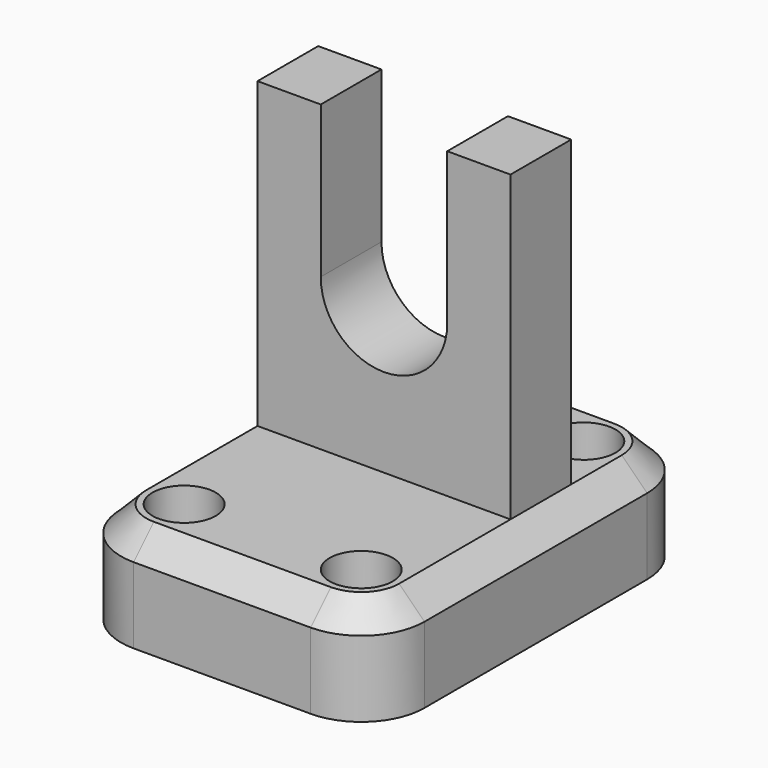
from build123d import *

# Parameters (mm, degrees)
F1_DEPTH = 25.4
F2_D     = 15.875
F3_SIZE  = 6.35
F4_W     = 63.5
F4_H     = 19.05
F5_DEPTH = 76.2
F7_DEPTH = 25.4


with BuildPart() as f1:
    # F0 (on Top) → F1 (new body)
    with BuildSketch(Plane.XY):
        with BuildLine():
            Line((60.325, 0), (15.875, 0))
            ThreePointArc((15.875, 0), (4.6496798487, -4.6496798487), (0, -15.875))
            Line((0, -15.875), (0, -85.725))
            ThreePointArc((0, -85.725), (4.6496798487, -96.9503201513), (15.875, -101.6))
            Line((15.875, -101.6), (60.325, -101.6))
            ThreePointArc((60.325, -101.6), (71.5503201513, -96.9503201513), (76.2, -85.725))
            Line((76.2, -85.725), (76.2, -15.875))
            ThreePointArc((76.2, -15.875), (71.5503201513, -4.6496798487), (60.325, 0))
        make_face()
    extrude(amount=F1_DEPTH)

    # F2 (through all)
    with Locations(Plane(origin=(0, 0, 0), x_dir=(1, 0, 0), z_dir=(0, 0, -1))):
        with Locations((15.875, 15.875), (60.325, 15.875), (60.325, 85.725), (15.875, 85.725)):
            Hole(F2_D / 2)

    # F3
    f3_edges = [f1.edges().sort_by_distance(p)[0] for p in [
        (4.64968, -4.64968, 25.4),
    ]]
    chamfer(f3_edges, length=F3_SIZE)

    # F4 (on face) → F5 (join)
    with BuildSketch(Plane.XY.offset(25.4)):
        with Locations((38.1, -41.275)):
            Rectangle(F4_W, F4_H)
    extrude(amount=F5_DEPTH)

    # F6 (on face) → F7 (cut)
    with BuildSketch(Plane.XZ.offset(50.8)):
        with BuildLine():
            Line((53.975, 63.5), (53.975, 101.6))
            Line((53.975, 101.6), (22.225, 101.6))
            Line((22.225, 101.6), (22.225, 63.5))
            ThreePointArc((22.225, 63.5), (38.1, 79.375), (53.975, 63.5))
        make_face()
        with BuildLine():
            ThreePointArc((22.225, 63.5), (38.1, 47.625), (53.975, 63.5))
            ThreePointArc((53.975, 63.5), (38.1, 79.375), (22.225, 63.5))
        make_face()
    extrude(amount=-F7_DEPTH, mode=Mode.SUBTRACT)


solid = f1.part
